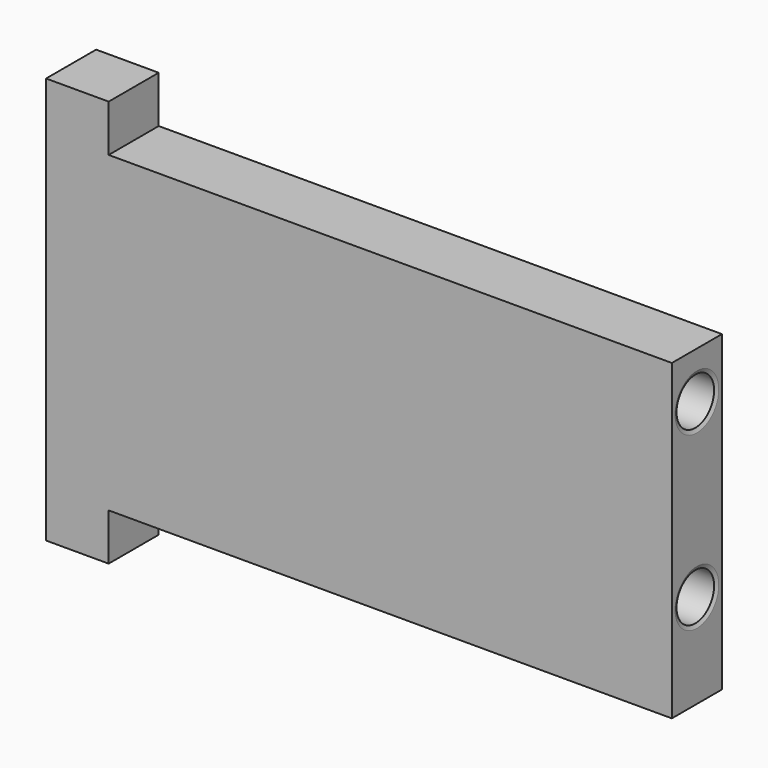
from build123d import *

# Parameters (mm, degrees)
F1_DEPTH       = 3.175
F3_D           = 4.7625
F3_DEPTH       = 19.05
F3_CSINK_D     = 5.5372
F3_CSINK_ANGLE = 135
F3_TIP         = 1.4307993491


with BuildPart() as f1:
    # F0 (on Front) → F1 (new body, symmetric)
    with BuildSketch(Plane.XZ):
        Polygon((-57.15, 20.6375), (-63.5, 20.6375), (-63.5, -20.6375), (-57.15, -20.6375), (-57.15, -15.875), (0, -15.875), (0, 15.875), (-57.15, 15.875), align=None)
    extrude(amount=F1_DEPTH, both=True)

    # F3
    with Locations(Plane.YZ):
        with Locations((0, 11.1125), (0, -6.35)):
            CounterSinkHole(F3_D / 2, F3_CSINK_D / 2, depth=F3_DEPTH, counter_sink_angle=F3_CSINK_ANGLE)
            with Locations((0, 0, -(F3_DEPTH + F3_TIP / 2))):  # 118° drill point
                Cone(0, F3_D / 2, F3_TIP, mode=Mode.SUBTRACT)


solid = f1.part
